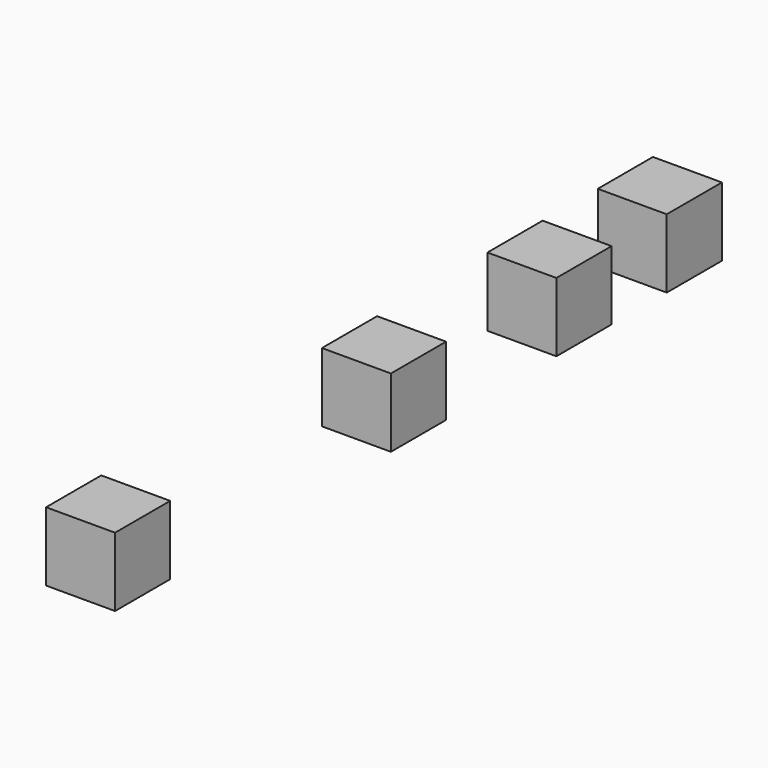
from build123d import *

# Parameters (mm, degrees)
F0_W     = 10
F0_H     = 10
F1_DEPTH = 10


with BuildPart() as f1:
    # F0 (on Right) → F1 (new body)
    with BuildSketch(Plane.YZ):
        with Locations((-59.741457, 5)):
            Rectangle(F0_W, F0_H)
        with Locations((-9.741457, 5)):
            Rectangle(F0_W, F0_H)
        with Locations((20.258543, 5)):
            Rectangle(F0_W, F0_H)
        with Locations((40.258543, 5)):
            Rectangle(F0_W, F0_H)
    extrude(amount=F1_DEPTH)


solid = f1.part
